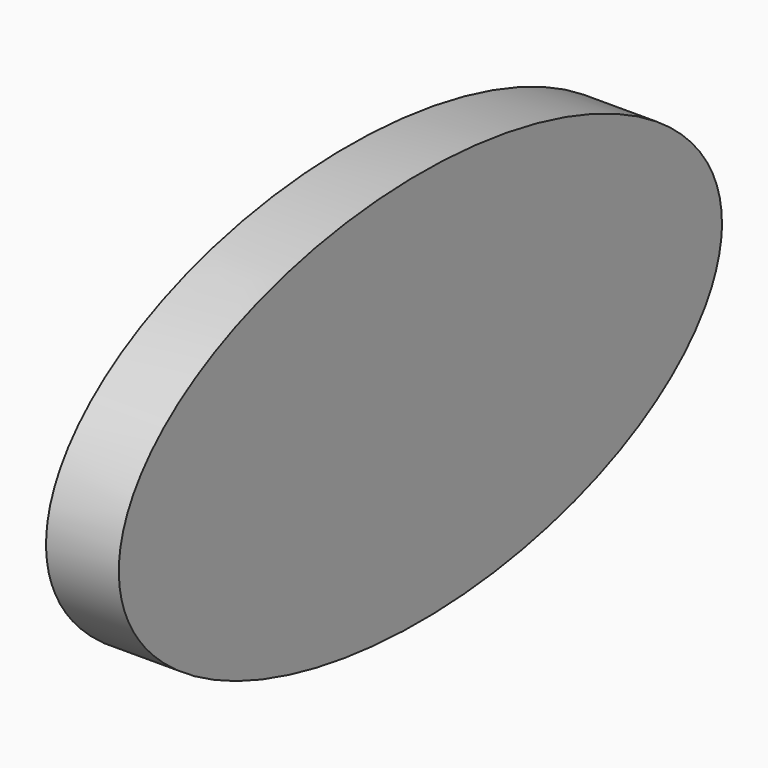
from build123d import *

# Parameters (mm, degrees)
F1_DEPTH = 2.54


with BuildPart() as f1:
    # F0 (on Right) → F1 (new body)
    with BuildSketch(Plane.YZ):
        with BuildLine():
            add(Edge.make_bspline(
                [(-89.216202, 51.268946), (-89.216202, 63.199164), (-108.947638, 57.234055), (-128.679074, 51.268946), (-108.947638, 45.303838), (-89.216202, 39.338729), (-89.216202, 51.268946)],
                knots=[0, 0, 0, 2.094395, 2.094395, 4.18879, 4.18879, 6.283185, 6.283185, 6.283185], degree=2, weights=[1, 0.5, 1, 0.5, 1, 0.5, 1]))
        make_face()
    extrude(amount=F1_DEPTH)


solid = f1.part
